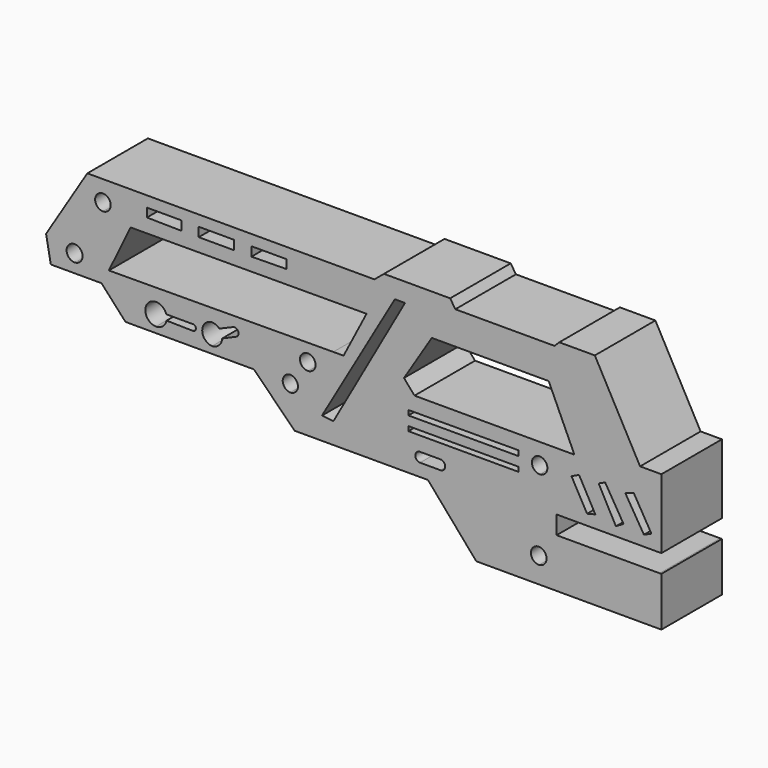
from build123d import *

# Parameters (mm, degrees)
F0_W     = 22.1923217177
F0_H     = 0.9084586054
F1_DEPTH = 10.414
F2_DEPTH = 14.986
F3_DEPTH = 15.24


with BuildPart() as f1:
    # F0 (on Front) → F1 (new body)
    with BuildSketch(Plane.XZ):
        Polygon((-53.8989529014, 39.8452989757), (-62.2033849359, 26.4304485172), (-61.2545385957, 21.2916620076), (-51.0427840054, 21.2916620076), (-46.2102666497, 16.0020291805), (-20.3606151044, 16.0020291805), (-13.255706698, 8.8983017468), (-4.3594830619, 24.2926370121), (-49.5626851916, 24.0333722991), (-45.1889722084, 33.0900720239), (1.2559768224, 33.2258741675), (1.2559676738, 33.2290030564), (5.0794551532, 39.8452989757), (5.8395103551, 41.4479784667), (3.9126658812, 39.8452989757), (-1.2775577057, 39.8452989757), (-1.2695360929, 38.4467184285), (-8.7622598362, 38.4467184285), (-8.770281449, 39.8452989757), align=None)
        with BuildLine():
            ThreePointArc((-13.0268260837, 14.278376475), (-14.5540404384, 15.8186907805), (-13.0997346714, 17.428021878))
            ThreePointArc((-13.0997346714, 17.428021878), (-11.484185598, 15.8897523612), (-13.0268260837, 14.278376475))
        make_face(mode=Mode.SUBTRACT)
        with BuildLine():
            Line((-37.9984280719, 20.0271028818), (-37.9916885024, 20.0271028818))
            Line((-37.9916885024, 20.0271028818), (-32.7711105347, 20.0271028818))
            ThreePointArc((-32.7711105347, 20.0271028818), (-32.0289837043, 19.4084187165), (-32.8052155674, 18.833104521))
            Line((-32.8052155674, 18.833104521), (-37.9439190357, 18.9219006441))
            ThreePointArc((-37.9439190357, 18.9219006441), (-37.9626085387, 18.8400051848), (-37.9844145835, 18.7588839165))
            ThreePointArc((-37.9844145835, 18.7588839165), (-38.7658601453, 17.6200936551), (-40.0724597275, 17.1725470573))
            ThreePointArc((-40.0724597275, 17.1725470573), (-41.8069080135, 18.0895524359), (-42.1153038473, 20.0271028818))
            ThreePointArc((-42.1153038473, 20.0271028818), (-41.273075903, 21.1705032876), (-39.90714252, 21.5590111911))
            ThreePointArc((-39.90714252, 21.5590111911), (-38.7197592171, 21.0834009433), (-37.9984280719, 20.0271028818))
        make_face(mode=Mode.SUBTRACT)
        with BuildLine():
            ThreePointArc((-56.3840046525, 23.2127420604), (-58.0704472115, 24.7610898767), (-56.554608047, 26.4768116176))
            ThreePointArc((-56.554608047, 26.4768116176), (-54.8640364193, 24.9286796157), (-56.3840046525, 23.2127420604))
        make_face(mode=Mode.SUBTRACT)
        with BuildLine():
            ThreePointArc((-28.7806931883, 17.3824876547), (-30.7576276406, 19.4000005806), (-28.9864428341, 21.6003488749))
            ThreePointArc((-28.9864428341, 21.6003488749), (-28.0936156673, 21.4582404584), (-27.3420586603, 20.9557494463))
            Line((-27.3420586603, 20.9557494463), (-24.5971232653, 22.1147220582))
            ThreePointArc((-24.5971232653, 22.1147220582), (-23.562567072, 21.7812032329), (-23.7398333848, 20.7087676972))
            Line((-23.7398333848, 20.7087676972), (-26.7552222348, 19.3894818852))
            ThreePointArc((-26.7552222348, 19.3894818852), (-27.378023251, 17.9924605078), (-28.7806931883, 17.3824876547))
        make_face(mode=Mode.SUBTRACT)
        with BuildLine():
            ThreePointArc((-9.4125512987, 19.2596334964), (-11.073152773, 20.7445950582), (-9.5546795055, 22.3746094853))
            ThreePointArc((-9.5546795055, 22.3746094853), (-7.9422013451, 20.8874521825), (-9.4125512987, 19.2596334964))
        make_face(mode=Mode.SUBTRACT)
        with BuildLine():
            ThreePointArc((-50.7161691785, 34.1219939291), (-52.3204809392, 35.6332106629), (-50.8836694062, 37.3044870794))
            ThreePointArc((-50.8836694062, 37.3044870794), (-49.1835683283, 35.7983119064), (-50.7161691785, 34.1219939291))
        make_face(mode=Mode.SUBTRACT)
        Polygon((-34.9635621177, 35.8177212915), (-41.8904498219, 35.9150730073), (-41.9005095016, 37.6689936612), (-34.974180162, 37.6689936612), align=None, mode=Mode.SUBTRACT)
        Polygon((-24.345624225, 35.8177212915), (-31.4673371613, 35.8177212915), (-31.4779552055, 37.6689936612), (-24.3562422693, 37.6689936612), align=None, mode=Mode.SUBTRACT)
        Polygon((-13.8357197866, 35.9150730073), (-20.8494011313, 35.8177212915), (-20.8600191755, 37.6689936612), (-13.8357197866, 37.6689936612), align=None, mode=Mode.SUBTRACT)
        Polygon((-1.2775577057, 39.8452989757), (-8.770281449, 39.8452989757), (-8.7622598362, 38.4467184285), (-1.2695360929, 38.4467184285), align=None)
        with BuildLine():
            Line((19.167561084, 41.4479784667), (5.8395103551, 41.4479784667))
            Line((5.8395103551, 41.4479784667), (5.0794551532, 39.8452989757))
            Line((5.0794551532, 39.8452989757), (1.2559676738, 33.2290030564))
            Line((1.2559676738, 33.2290030564), (1.2559768224, 33.2258741675))
            Line((1.2559768224, 33.2258741675), (2.3260710295, 33.2290030564))
            Line((2.3260710295, 33.2290030564), (-2.2922030184, 24.3044939767))
            Line((-2.2922030184, 24.3044939767), (-4.3594830619, 24.2926370121))
            Line((-4.3594830619, 24.2926370121), (-13.255706698, 8.8983017468))
            Line((-13.255706698, 8.8983017468), (-12.1438503265, 7.7866301872))
            Line((-12.1438503265, 7.7866301872), (14.6967647597, 7.7866301872))
            Line((14.6967647597, 7.7866301872), (24.4201570749, -3.4560419153))
            Line((24.4201570749, -3.4560419153), (40.5992940068, -3.4560419153))
            Line((40.5992940068, -3.4560419153), (40.5992940068, 6.425104104))
            Line((40.5992940068, 6.425104104), (31.3226692379, 6.425104104))
            ThreePointArc((31.3226692379, 6.425104104), (29.4844964519, 8.2632768899), (31.3226692379, 10.1014496759))
            Line((31.3226692379, 10.1014496759), (40.5992940068, 10.1014496759))
            Line((40.5992940068, 10.1014496759), (40.5992940068, 20.9160149097))
            Line((40.5992940068, 20.9160149097), (40.124278284, 21.8618906762))
            Line((40.124278284, 21.8618906762), (11.9815697362, 21.8618906762))
            Line((11.9815697362, 21.8618906762), (9.871987626, 24.3010949343))
            Line((9.871987626, 24.3010949343), (15.4662318528, 33.2290030564))
            Line((15.4662318528, 33.2290030564), (28.5828653723, 33.2290030564))
            Line((28.5828653723, 33.2290030564), (28.5828653723, 39.8452989757))
            Line((28.5828653723, 39.8452989757), (20.2077999711, 39.8452989757))
            Line((20.2077999711, 39.8452989757), (19.167561084, 41.4479784667))
        make_face()
        with BuildLine():
            ThreePointArc((37.0792448521, 0), (35.4258539466, 1.6053152108), (37.059891969, 3.230325412))
            ThreePointArc((37.059891969, 3.230325412), (38.5843634558, 1.6242378448), (37.0792448521, 0))
        make_face(mode=Mode.SUBTRACT)
        with BuildLine():
            ThreePointArc((17.2112379223, 12.2637702152), (18.1738948449, 11.3011132926), (17.2112379223, 10.3384563699))
            Line((17.2112379223, 10.3384563699), (13.1137743592, 10.3384563699))
            ThreePointArc((13.1137743592, 10.3384563699), (12.1511174366, 11.3011132926), (13.1137743592, 12.2637702152))
            Line((13.1137743592, 12.2637702152), (17.2112379223, 12.2637702152))
        make_face(mode=Mode.SUBTRACT)
        with Locations((21.8536183238, 15.6107107177)):
            Rectangle(F0_W, F0_H, mode=Mode.SUBTRACT)
        Polygon((10.7574574649, 17.9467443377), (10.7574574649, 18.9200919122), (32.9497791827, 18.9849808812), (32.9497791827, 17.9467443377), align=None, mode=Mode.SUBTRACT)
        with BuildLine():
            ThreePointArc((37.2340418398, 16.0928107798), (35.6240447704, 17.6285185238), (37.0840206742, 19.3074941635))
            ThreePointArc((37.0840206742, 19.3074941635), (38.73947185, 17.773907648), (37.2340418398, 16.0928107798))
        make_face(mode=Mode.SUBTRACT)
        Polygon((-4.3526310474, 12.0042674243), (-6.650744006, 12.2596127912), (8.0316467211, 37.6665331423), (10.0744143128, 37.6665331423), align=None, mode=Mode.SUBTRACT)
        Polygon((40.1673689485, 39.8452989757), (28.5828653723, 39.8452989757), (28.5828653723, 33.2290030564), (39.0049766551, 33.2290030564), (44.1833548248, 21.8618906762), (40.124278284, 21.8618906762), (40.5992940068, 20.9160149097), (40.5992940068, 10.1014496759), (61.6977773607, 10.1014496759), (61.6977773607, 14.0130445361), (61.6977773607, 17.1568375081), (61.6977773607, 21.3974900544), (61.6977773607, 24.0907017142), (57.4086906923, 24.0907017142), (48.3003184199, 40.797829628), (41.1425940692, 40.797829628), align=None)
        Polygon((46.7380546033, 12.2271468863), (43.5979627073, 17.8556125611), (45.1212264597, 18.5833983123), (48.3969710767, 12.6418760046), align=None, mode=Mode.SUBTRACT)
        Polygon((52.5389316505, 11.8859471201), (49.059830606, 18.3688197285), (50.3788404167, 18.9526434988), (54.0763959289, 12.8116738051), align=None, mode=Mode.SUBTRACT)
        Polygon((58.1847913563, 12.2271468863), (54.4439889491, 18.3688197285), (56.1522170901, 18.9310200512), (59.6988014036, 12.8972822006), align=None, mode=Mode.SUBTRACT)
        Polygon((40.5992940068, 6.425104104), (40.5992940068, -3.4560419153), (61.6977773607, -3.4560419153), (61.6977773607, -0.6431947113), (61.6977773607, -0.5626445649), (59.7205497008, -0.5626445649), (59.6988014036, 3.2292045653), (61.6977773607, 3.2292045653), (61.6977773607, 6.429312285), (61.3413229585, 6.425104104), align=None)
        with BuildLine():
            Line((31.3226692379, 6.425104104), (40.5992940068, 6.425104104))
            Line((40.5992940068, 6.425104104), (40.5992940068, 10.1014496759))
            Line((40.5992940068, 10.1014496759), (31.3226692379, 10.1014496759))
            ThreePointArc((31.3226692379, 10.1014496759), (29.4844964519, 8.2632768899), (31.3226692379, 6.425104104))
        make_face()
        Polygon((59.7205497008, -0.5626445649), (61.6977773607, -0.5626445649), (61.6977773607, 0), (61.6977773607, 3.2292045653), (59.6988014036, 3.2292045653), align=None)
    extrude(amount=F1_DEPTH)

    # F0 (on Front) → F2 (join)
    with BuildSketch(Plane.XZ):
        Polygon((-53.8989529014, 39.8452989757), (-62.2033849359, 26.4304485172), (-61.2545385957, 21.2916620076), (-51.0427840054, 21.2916620076), (-46.2102666497, 16.0020291805), (-20.3606151044, 16.0020291805), (-13.255706698, 8.8983017468), (-4.3594830619, 24.2926370121), (-49.5626851916, 24.0333722991), (-45.1889722084, 33.0900720239), (1.2559768224, 33.2258741675), (1.2559676738, 33.2290030564), (5.0794551532, 39.8452989757), (5.8395103551, 41.4479784667), (3.9126658812, 39.8452989757), (-1.2775577057, 39.8452989757), (-1.2695360929, 38.4467184285), (-8.7622598362, 38.4467184285), (-8.770281449, 39.8452989757), align=None)
        with BuildLine():
            ThreePointArc((-13.0268260837, 14.278376475), (-14.5540404384, 15.8186907805), (-13.0997346714, 17.428021878))
            ThreePointArc((-13.0997346714, 17.428021878), (-11.484185598, 15.8897523612), (-13.0268260837, 14.278376475))
        make_face(mode=Mode.SUBTRACT)
        with BuildLine():
            Line((-37.9984280719, 20.0271028818), (-37.9916885024, 20.0271028818))
            Line((-37.9916885024, 20.0271028818), (-32.7711105347, 20.0271028818))
            ThreePointArc((-32.7711105347, 20.0271028818), (-32.0289837043, 19.4084187165), (-32.8052155674, 18.833104521))
            Line((-32.8052155674, 18.833104521), (-37.9439190357, 18.9219006441))
            ThreePointArc((-37.9439190357, 18.9219006441), (-37.9626085387, 18.8400051848), (-37.9844145835, 18.7588839165))
            ThreePointArc((-37.9844145835, 18.7588839165), (-38.7658601453, 17.6200936551), (-40.0724597275, 17.1725470573))
            ThreePointArc((-40.0724597275, 17.1725470573), (-41.8069080135, 18.0895524359), (-42.1153038473, 20.0271028818))
            ThreePointArc((-42.1153038473, 20.0271028818), (-41.273075903, 21.1705032876), (-39.90714252, 21.5590111911))
            ThreePointArc((-39.90714252, 21.5590111911), (-38.7197592171, 21.0834009433), (-37.9984280719, 20.0271028818))
        make_face(mode=Mode.SUBTRACT)
        with BuildLine():
            ThreePointArc((-56.3840046525, 23.2127420604), (-58.0704472115, 24.7610898767), (-56.554608047, 26.4768116176))
            ThreePointArc((-56.554608047, 26.4768116176), (-54.8640364193, 24.9286796157), (-56.3840046525, 23.2127420604))
        make_face(mode=Mode.SUBTRACT)
        with BuildLine():
            ThreePointArc((-28.7806931883, 17.3824876547), (-30.7576276406, 19.4000005806), (-28.9864428341, 21.6003488749))
            ThreePointArc((-28.9864428341, 21.6003488749), (-28.0936156673, 21.4582404584), (-27.3420586603, 20.9557494463))
            Line((-27.3420586603, 20.9557494463), (-24.5971232653, 22.1147220582))
            ThreePointArc((-24.5971232653, 22.1147220582), (-23.562567072, 21.7812032329), (-23.7398333848, 20.7087676972))
            Line((-23.7398333848, 20.7087676972), (-26.7552222348, 19.3894818852))
            ThreePointArc((-26.7552222348, 19.3894818852), (-27.378023251, 17.9924605078), (-28.7806931883, 17.3824876547))
        make_face(mode=Mode.SUBTRACT)
        with BuildLine():
            ThreePointArc((-9.4125512987, 19.2596334964), (-11.073152773, 20.7445950582), (-9.5546795055, 22.3746094853))
            ThreePointArc((-9.5546795055, 22.3746094853), (-7.9422013451, 20.8874521825), (-9.4125512987, 19.2596334964))
        make_face(mode=Mode.SUBTRACT)
        with BuildLine():
            ThreePointArc((-50.7161691785, 34.1219939291), (-52.3204809392, 35.6332106629), (-50.8836694062, 37.3044870794))
            ThreePointArc((-50.8836694062, 37.3044870794), (-49.1835683283, 35.7983119064), (-50.7161691785, 34.1219939291))
        make_face(mode=Mode.SUBTRACT)
        Polygon((-34.9635621177, 35.8177212915), (-41.8904498219, 35.9150730073), (-41.9005095016, 37.6689936612), (-34.974180162, 37.6689936612), align=None, mode=Mode.SUBTRACT)
        Polygon((-24.345624225, 35.8177212915), (-31.4673371613, 35.8177212915), (-31.4779552055, 37.6689936612), (-24.3562422693, 37.6689936612), align=None, mode=Mode.SUBTRACT)
        Polygon((-13.8357197866, 35.9150730073), (-20.8494011313, 35.8177212915), (-20.8600191755, 37.6689936612), (-13.8357197866, 37.6689936612), align=None, mode=Mode.SUBTRACT)
        Polygon((-1.2775577057, 39.8452989757), (-8.770281449, 39.8452989757), (-8.7622598362, 38.4467184285), (-1.2695360929, 38.4467184285), align=None)
        with BuildLine():
            Line((19.167561084, 41.4479784667), (5.8395103551, 41.4479784667))
            Line((5.8395103551, 41.4479784667), (5.0794551532, 39.8452989757))
            Line((5.0794551532, 39.8452989757), (1.2559676738, 33.2290030564))
            Line((1.2559676738, 33.2290030564), (1.2559768224, 33.2258741675))
            Line((1.2559768224, 33.2258741675), (2.3260710295, 33.2290030564))
            Line((2.3260710295, 33.2290030564), (-2.2922030184, 24.3044939767))
            Line((-2.2922030184, 24.3044939767), (-4.3594830619, 24.2926370121))
            Line((-4.3594830619, 24.2926370121), (-13.255706698, 8.8983017468))
            Line((-13.255706698, 8.8983017468), (-12.1438503265, 7.7866301872))
            Line((-12.1438503265, 7.7866301872), (14.6967647597, 7.7866301872))
            Line((14.6967647597, 7.7866301872), (24.4201570749, -3.4560419153))
            Line((24.4201570749, -3.4560419153), (40.5992940068, -3.4560419153))
            Line((40.5992940068, -3.4560419153), (40.5992940068, 6.425104104))
            Line((40.5992940068, 6.425104104), (31.3226692379, 6.425104104))
            ThreePointArc((31.3226692379, 6.425104104), (29.4844964519, 8.2632768899), (31.3226692379, 10.1014496759))
            Line((31.3226692379, 10.1014496759), (40.5992940068, 10.1014496759))
            Line((40.5992940068, 10.1014496759), (40.5992940068, 20.9160149097))
            Line((40.5992940068, 20.9160149097), (40.124278284, 21.8618906762))
            Line((40.124278284, 21.8618906762), (11.9815697362, 21.8618906762))
            Line((11.9815697362, 21.8618906762), (9.871987626, 24.3010949343))
            Line((9.871987626, 24.3010949343), (15.4662318528, 33.2290030564))
            Line((15.4662318528, 33.2290030564), (28.5828653723, 33.2290030564))
            Line((28.5828653723, 33.2290030564), (28.5828653723, 39.8452989757))
            Line((28.5828653723, 39.8452989757), (20.2077999711, 39.8452989757))
            Line((20.2077999711, 39.8452989757), (19.167561084, 41.4479784667))
        make_face()
        with BuildLine():
            ThreePointArc((37.0792448521, 0), (35.4258539466, 1.6053152108), (37.059891969, 3.230325412))
            ThreePointArc((37.059891969, 3.230325412), (38.5843634558, 1.6242378448), (37.0792448521, 0))
        make_face(mode=Mode.SUBTRACT)
        with BuildLine():
            ThreePointArc((17.2112379223, 12.2637702152), (18.1738948449, 11.3011132926), (17.2112379223, 10.3384563699))
            Line((17.2112379223, 10.3384563699), (13.1137743592, 10.3384563699))
            ThreePointArc((13.1137743592, 10.3384563699), (12.1511174366, 11.3011132926), (13.1137743592, 12.2637702152))
            Line((13.1137743592, 12.2637702152), (17.2112379223, 12.2637702152))
        make_face(mode=Mode.SUBTRACT)
        with Locations((21.8536183238, 15.6107107177)):
            Rectangle(F0_W, F0_H, mode=Mode.SUBTRACT)
        Polygon((10.7574574649, 17.9467443377), (10.7574574649, 18.9200919122), (32.9497791827, 18.9849808812), (32.9497791827, 17.9467443377), align=None, mode=Mode.SUBTRACT)
        with BuildLine():
            ThreePointArc((37.2340418398, 16.0928107798), (35.6240447704, 17.6285185238), (37.0840206742, 19.3074941635))
            ThreePointArc((37.0840206742, 19.3074941635), (38.73947185, 17.773907648), (37.2340418398, 16.0928107798))
        make_face(mode=Mode.SUBTRACT)
        Polygon((-4.3526310474, 12.0042674243), (-6.650744006, 12.2596127912), (8.0316467211, 37.6665331423), (10.0744143128, 37.6665331423), align=None, mode=Mode.SUBTRACT)
        Polygon((40.1673689485, 39.8452989757), (28.5828653723, 39.8452989757), (28.5828653723, 33.2290030564), (39.0049766551, 33.2290030564), (44.1833548248, 21.8618906762), (40.124278284, 21.8618906762), (40.5992940068, 20.9160149097), (40.5992940068, 10.1014496759), (61.6977773607, 10.1014496759), (61.6977773607, 14.0130445361), (61.6977773607, 17.1568375081), (61.6977773607, 21.3974900544), (61.6977773607, 24.0907017142), (57.4086906923, 24.0907017142), (48.3003184199, 40.797829628), (41.1425940692, 40.797829628), align=None)
        Polygon((46.7380546033, 12.2271468863), (43.5979627073, 17.8556125611), (45.1212264597, 18.5833983123), (48.3969710767, 12.6418760046), align=None, mode=Mode.SUBTRACT)
        Polygon((52.5389316505, 11.8859471201), (49.059830606, 18.3688197285), (50.3788404167, 18.9526434988), (54.0763959289, 12.8116738051), align=None, mode=Mode.SUBTRACT)
        Polygon((58.1847913563, 12.2271468863), (54.4439889491, 18.3688197285), (56.1522170901, 18.9310200512), (59.6988014036, 12.8972822006), align=None, mode=Mode.SUBTRACT)
        Polygon((40.5992940068, 6.425104104), (40.5992940068, -3.4560419153), (61.6977773607, -3.4560419153), (61.6977773607, -0.6431947113), (61.6977773607, -0.5626445649), (59.7205497008, -0.5626445649), (59.6988014036, 3.2292045653), (61.6977773607, 3.2292045653), (61.6977773607, 6.429312285), (61.3413229585, 6.425104104), align=None)
        with BuildLine():
            Line((31.3226692379, 6.425104104), (40.5992940068, 6.425104104))
            Line((40.5992940068, 6.425104104), (40.5992940068, 10.1014496759))
            Line((40.5992940068, 10.1014496759), (31.3226692379, 10.1014496759))
            ThreePointArc((31.3226692379, 10.1014496759), (29.4844964519, 8.2632768899), (31.3226692379, 6.425104104))
        make_face()
        Polygon((59.7205497008, -0.5626445649), (61.6977773607, -0.5626445649), (61.6977773607, 0), (61.6977773607, 3.2292045653), (59.6988014036, 3.2292045653), align=None)
    extrude(amount=F2_DEPTH)

    # F0 (on Front) → F3 (join)
    with BuildSketch(Plane.XZ):
        Polygon((-53.8989529014, 39.8452989757), (-62.2033849359, 26.4304485172), (-61.2545385957, 21.2916620076), (-51.0427840054, 21.2916620076), (-46.2102666497, 16.0020291805), (-20.3606151044, 16.0020291805), (-13.255706698, 8.8983017468), (-4.3594830619, 24.2926370121), (-49.5626851916, 24.0333722991), (-45.1889722084, 33.0900720239), (1.2559768224, 33.2258741675), (1.2559676738, 33.2290030564), (5.0794551532, 39.8452989757), (5.8395103551, 41.4479784667), (3.9126658812, 39.8452989757), (-1.2775577057, 39.8452989757), (-1.2695360929, 38.4467184285), (-8.7622598362, 38.4467184285), (-8.770281449, 39.8452989757), align=None)
        with BuildLine():
            ThreePointArc((-13.0268260837, 14.278376475), (-14.5540404384, 15.8186907805), (-13.0997346714, 17.428021878))
            ThreePointArc((-13.0997346714, 17.428021878), (-11.484185598, 15.8897523612), (-13.0268260837, 14.278376475))
        make_face(mode=Mode.SUBTRACT)
        with BuildLine():
            Line((-37.9984280719, 20.0271028818), (-37.9916885024, 20.0271028818))
            Line((-37.9916885024, 20.0271028818), (-32.7711105347, 20.0271028818))
            ThreePointArc((-32.7711105347, 20.0271028818), (-32.0289837043, 19.4084187165), (-32.8052155674, 18.833104521))
            Line((-32.8052155674, 18.833104521), (-37.9439190357, 18.9219006441))
            ThreePointArc((-37.9439190357, 18.9219006441), (-37.9626085387, 18.8400051848), (-37.9844145835, 18.7588839165))
            ThreePointArc((-37.9844145835, 18.7588839165), (-38.7658601453, 17.6200936551), (-40.0724597275, 17.1725470573))
            ThreePointArc((-40.0724597275, 17.1725470573), (-41.8069080135, 18.0895524359), (-42.1153038473, 20.0271028818))
            ThreePointArc((-42.1153038473, 20.0271028818), (-41.273075903, 21.1705032876), (-39.90714252, 21.5590111911))
            ThreePointArc((-39.90714252, 21.5590111911), (-38.7197592171, 21.0834009433), (-37.9984280719, 20.0271028818))
        make_face(mode=Mode.SUBTRACT)
        with BuildLine():
            ThreePointArc((-56.3840046525, 23.2127420604), (-58.0704472115, 24.7610898767), (-56.554608047, 26.4768116176))
            ThreePointArc((-56.554608047, 26.4768116176), (-54.8640364193, 24.9286796157), (-56.3840046525, 23.2127420604))
        make_face(mode=Mode.SUBTRACT)
        with BuildLine():
            ThreePointArc((-28.7806931883, 17.3824876547), (-30.7576276406, 19.4000005806), (-28.9864428341, 21.6003488749))
            ThreePointArc((-28.9864428341, 21.6003488749), (-28.0936156673, 21.4582404584), (-27.3420586603, 20.9557494463))
            Line((-27.3420586603, 20.9557494463), (-24.5971232653, 22.1147220582))
            ThreePointArc((-24.5971232653, 22.1147220582), (-23.562567072, 21.7812032329), (-23.7398333848, 20.7087676972))
            Line((-23.7398333848, 20.7087676972), (-26.7552222348, 19.3894818852))
            ThreePointArc((-26.7552222348, 19.3894818852), (-27.378023251, 17.9924605078), (-28.7806931883, 17.3824876547))
        make_face(mode=Mode.SUBTRACT)
        with BuildLine():
            ThreePointArc((-9.4125512987, 19.2596334964), (-11.073152773, 20.7445950582), (-9.5546795055, 22.3746094853))
            ThreePointArc((-9.5546795055, 22.3746094853), (-7.9422013451, 20.8874521825), (-9.4125512987, 19.2596334964))
        make_face(mode=Mode.SUBTRACT)
        with BuildLine():
            ThreePointArc((-50.7161691785, 34.1219939291), (-52.3204809392, 35.6332106629), (-50.8836694062, 37.3044870794))
            ThreePointArc((-50.8836694062, 37.3044870794), (-49.1835683283, 35.7983119064), (-50.7161691785, 34.1219939291))
        make_face(mode=Mode.SUBTRACT)
        Polygon((-34.9635621177, 35.8177212915), (-41.8904498219, 35.9150730073), (-41.9005095016, 37.6689936612), (-34.974180162, 37.6689936612), align=None, mode=Mode.SUBTRACT)
        Polygon((-24.345624225, 35.8177212915), (-31.4673371613, 35.8177212915), (-31.4779552055, 37.6689936612), (-24.3562422693, 37.6689936612), align=None, mode=Mode.SUBTRACT)
        Polygon((-13.8357197866, 35.9150730073), (-20.8494011313, 35.8177212915), (-20.8600191755, 37.6689936612), (-13.8357197866, 37.6689936612), align=None, mode=Mode.SUBTRACT)
        Polygon((-1.2775577057, 39.8452989757), (-8.770281449, 39.8452989757), (-8.7622598362, 38.4467184285), (-1.2695360929, 38.4467184285), align=None)
        with BuildLine():
            Line((19.167561084, 41.4479784667), (5.8395103551, 41.4479784667))
            Line((5.8395103551, 41.4479784667), (5.0794551532, 39.8452989757))
            Line((5.0794551532, 39.8452989757), (1.2559676738, 33.2290030564))
            Line((1.2559676738, 33.2290030564), (1.2559768224, 33.2258741675))
            Line((1.2559768224, 33.2258741675), (2.3260710295, 33.2290030564))
            Line((2.3260710295, 33.2290030564), (-2.2922030184, 24.3044939767))
            Line((-2.2922030184, 24.3044939767), (-4.3594830619, 24.2926370121))
            Line((-4.3594830619, 24.2926370121), (-13.255706698, 8.8983017468))
            Line((-13.255706698, 8.8983017468), (-12.1438503265, 7.7866301872))
            Line((-12.1438503265, 7.7866301872), (14.6967647597, 7.7866301872))
            Line((14.6967647597, 7.7866301872), (24.4201570749, -3.4560419153))
            Line((24.4201570749, -3.4560419153), (40.5992940068, -3.4560419153))
            Line((40.5992940068, -3.4560419153), (40.5992940068, 6.425104104))
            Line((40.5992940068, 6.425104104), (31.3226692379, 6.425104104))
            ThreePointArc((31.3226692379, 6.425104104), (29.4844964519, 8.2632768899), (31.3226692379, 10.1014496759))
            Line((31.3226692379, 10.1014496759), (40.5992940068, 10.1014496759))
            Line((40.5992940068, 10.1014496759), (40.5992940068, 20.9160149097))
            Line((40.5992940068, 20.9160149097), (40.124278284, 21.8618906762))
            Line((40.124278284, 21.8618906762), (11.9815697362, 21.8618906762))
            Line((11.9815697362, 21.8618906762), (9.871987626, 24.3010949343))
            Line((9.871987626, 24.3010949343), (15.4662318528, 33.2290030564))
            Line((15.4662318528, 33.2290030564), (28.5828653723, 33.2290030564))
            Line((28.5828653723, 33.2290030564), (28.5828653723, 39.8452989757))
            Line((28.5828653723, 39.8452989757), (20.2077999711, 39.8452989757))
            Line((20.2077999711, 39.8452989757), (19.167561084, 41.4479784667))
        make_face()
        with BuildLine():
            ThreePointArc((37.0792448521, 0), (35.4258539466, 1.6053152108), (37.059891969, 3.230325412))
            ThreePointArc((37.059891969, 3.230325412), (38.5843634558, 1.6242378448), (37.0792448521, 0))
        make_face(mode=Mode.SUBTRACT)
        with BuildLine():
            ThreePointArc((17.2112379223, 12.2637702152), (18.1738948449, 11.3011132926), (17.2112379223, 10.3384563699))
            Line((17.2112379223, 10.3384563699), (13.1137743592, 10.3384563699))
            ThreePointArc((13.1137743592, 10.3384563699), (12.1511174366, 11.3011132926), (13.1137743592, 12.2637702152))
            Line((13.1137743592, 12.2637702152), (17.2112379223, 12.2637702152))
        make_face(mode=Mode.SUBTRACT)
        with Locations((21.8536183238, 15.6107107177)):
            Rectangle(F0_W, F0_H, mode=Mode.SUBTRACT)
        Polygon((10.7574574649, 17.9467443377), (10.7574574649, 18.9200919122), (32.9497791827, 18.9849808812), (32.9497791827, 17.9467443377), align=None, mode=Mode.SUBTRACT)
        with BuildLine():
            ThreePointArc((37.2340418398, 16.0928107798), (35.6240447704, 17.6285185238), (37.0840206742, 19.3074941635))
            ThreePointArc((37.0840206742, 19.3074941635), (38.73947185, 17.773907648), (37.2340418398, 16.0928107798))
        make_face(mode=Mode.SUBTRACT)
        Polygon((-4.3526310474, 12.0042674243), (-6.650744006, 12.2596127912), (8.0316467211, 37.6665331423), (10.0744143128, 37.6665331423), align=None, mode=Mode.SUBTRACT)
        Polygon((40.1673689485, 39.8452989757), (28.5828653723, 39.8452989757), (28.5828653723, 33.2290030564), (39.0049766551, 33.2290030564), (44.1833548248, 21.8618906762), (40.124278284, 21.8618906762), (40.5992940068, 20.9160149097), (40.5992940068, 10.1014496759), (61.6977773607, 10.1014496759), (61.6977773607, 14.0130445361), (61.6977773607, 17.1568375081), (61.6977773607, 21.3974900544), (61.6977773607, 24.0907017142), (57.4086906923, 24.0907017142), (48.3003184199, 40.797829628), (41.1425940692, 40.797829628), align=None)
        Polygon((46.7380546033, 12.2271468863), (43.5979627073, 17.8556125611), (45.1212264597, 18.5833983123), (48.3969710767, 12.6418760046), align=None, mode=Mode.SUBTRACT)
        Polygon((52.5389316505, 11.8859471201), (49.059830606, 18.3688197285), (50.3788404167, 18.9526434988), (54.0763959289, 12.8116738051), align=None, mode=Mode.SUBTRACT)
        Polygon((58.1847913563, 12.2271468863), (54.4439889491, 18.3688197285), (56.1522170901, 18.9310200512), (59.6988014036, 12.8972822006), align=None, mode=Mode.SUBTRACT)
        Polygon((40.5992940068, 6.425104104), (40.5992940068, -3.4560419153), (61.6977773607, -3.4560419153), (61.6977773607, -0.6431947113), (61.6977773607, -0.5626445649), (59.7205497008, -0.5626445649), (59.6988014036, 3.2292045653), (61.6977773607, 3.2292045653), (61.6977773607, 6.429312285), (61.3413229585, 6.425104104), align=None)
        with BuildLine():
            Line((31.3226692379, 6.425104104), (40.5992940068, 6.425104104))
            Line((40.5992940068, 6.425104104), (40.5992940068, 10.1014496759))
            Line((40.5992940068, 10.1014496759), (31.3226692379, 10.1014496759))
            ThreePointArc((31.3226692379, 10.1014496759), (29.4844964519, 8.2632768899), (31.3226692379, 6.425104104))
        make_face()
        Polygon((59.7205497008, -0.5626445649), (61.6977773607, -0.5626445649), (61.6977773607, 0), (61.6977773607, 3.2292045653), (59.6988014036, 3.2292045653), align=None)
    extrude(amount=F3_DEPTH)


solid = f1.part
